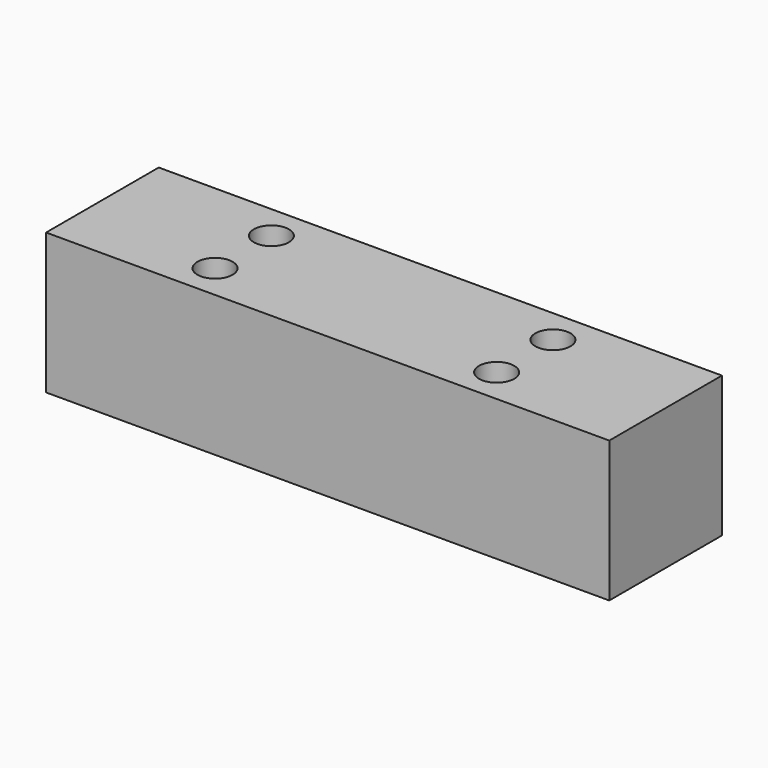
from build123d import *

# Parameters (mm, degrees)
SKETCH_W  = 80
SKETCH_H  = 20
SKETCH_R  = 2.5
PAD_DEPTH = 20


with BuildPart() as part:
    # Sketch → Pad (new body)
    with BuildSketch(Plane.XY):
        with Locations((40, 10)):
            Rectangle(SKETCH_W, SKETCH_H)
        with Locations((20, 15)):
            Circle(SKETCH_R, mode=Mode.SUBTRACT)
        with Locations((20, 5)):
            Circle(SKETCH_R, mode=Mode.SUBTRACT)
        with Locations((60, 15)):
            Circle(SKETCH_R, mode=Mode.SUBTRACT)
        with Locations((60, 5)):
            Circle(SKETCH_R, mode=Mode.SUBTRACT)
    extrude(amount=PAD_DEPTH)


solid = part.part
